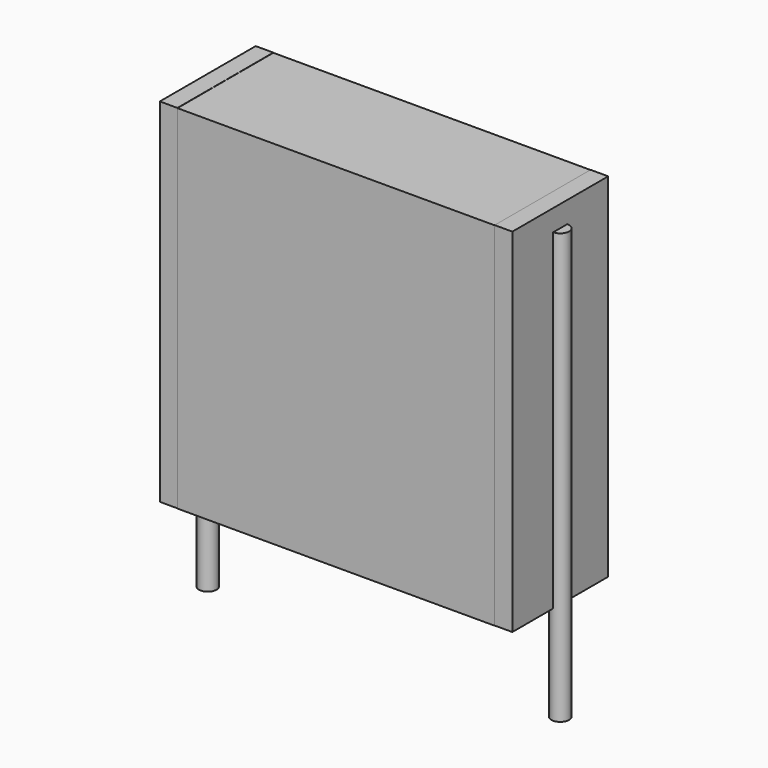
from build123d import *

# Parameters (mm, degrees)
SKETCH_W          = 9
SKETCH_H          = 3.4
PAD_DEPTH         = 10
SKETCH001_R       = 0.25
PAD001_DEPTH      = 9
PAD001_DEPTH_BACK = 3.2
SKETCH002_W       = 0.5
SKETCH002_H       = 3.4
PAD002_DEPTH      = 10


with BuildPart() as pad:
    # Sketch → Pad (new body)
    with BuildSketch(Plane.XY.offset(0.1)):
        with Locations((5, 0)):
            Rectangle(SKETCH_W, SKETCH_H)
    extrude(amount=PAD_DEPTH)


with BuildPart() as pad001:
    # Sketch001 → Pad001 (new body, two sides)
    with BuildSketch(Plane.XY.offset(0.5)) as pad001_sk:
        Circle(SKETCH001_R)
        with Locations((10, 0)):
            Circle(SKETCH001_R)
    extrude(amount=PAD001_DEPTH)
    extrude(pad001_sk.sketch, amount=-PAD001_DEPTH_BACK)


with BuildPart() as pad002:
    # Sketch002 → Pad002 (new body)
    with BuildSketch(Plane.XY.offset(0.105)):
        with Locations((0.25, 0)):
            Rectangle(SKETCH002_W, SKETCH002_H)
        with Locations((9.75, 0)):
            Rectangle(SKETCH002_W, SKETCH002_H)
    extrude(amount=PAD002_DEPTH)


solid = Compound([pad.part, pad001.part, pad002.part])
